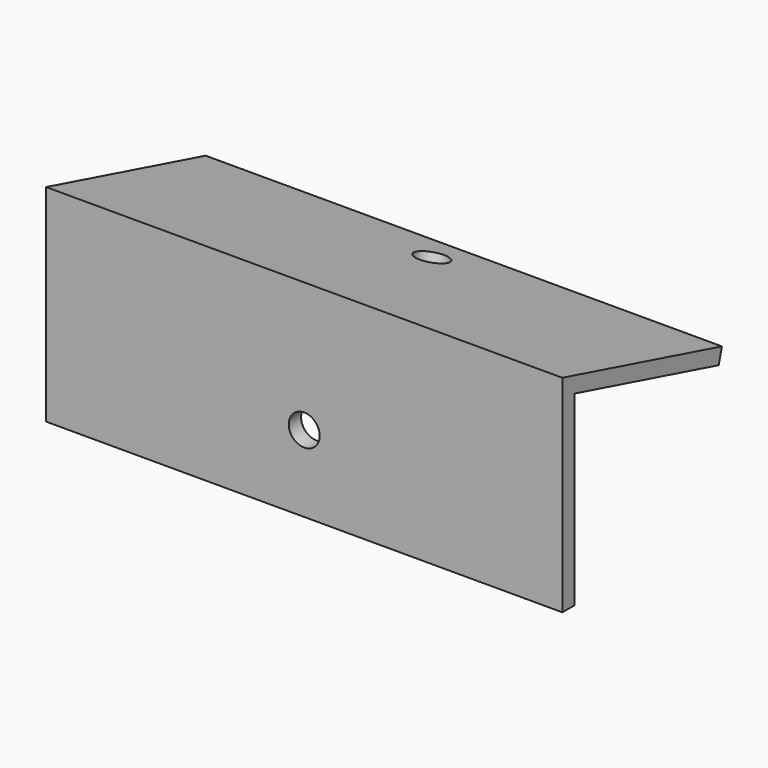
from build123d import *

# Parameters (mm, degrees)
F1_DEPTH = 25
F2_R     = 1.5
F3_DEPTH = 1.5
F4_R     = 1.5
F5_DEPTH = 1.5


with BuildPart() as f1:
    # F0 (on Right) → F1 (new body, symmetric)
    with BuildSketch(Plane.YZ):
        Polygon((-9.6592582629, -7.411809549), (-8.1592582629, -7.411809549), (-8.1592582629, 10.6333523918), (9.2710296952, 5.9629208095), (9.6592582629, 7.411809549), (-9.6592582629, 12.588190451), align=None)
    extrude(amount=F1_DEPTH, both=True)

    # F2 (on face) → F3 (cut, through all)
    with BuildSketch(Plane.XZ.offset(9.6592582629)):
        Circle(F2_R)
    extrude(amount=-F3_DEPTH, mode=Mode.SUBTRACT)

    # F4 (on face) → F5 (cut, through all)
    with BuildSketch(Plane(origin=(0, 2.5, 9.3301270189), x_dir=(1, 0, 0), z_dir=(0, 0.2588190451, 0.9659258263))):
        with Locations((0, 3.411809549)):
            Circle(F4_R)
    extrude(amount=-F5_DEPTH, mode=Mode.SUBTRACT)


solid = f1.part
